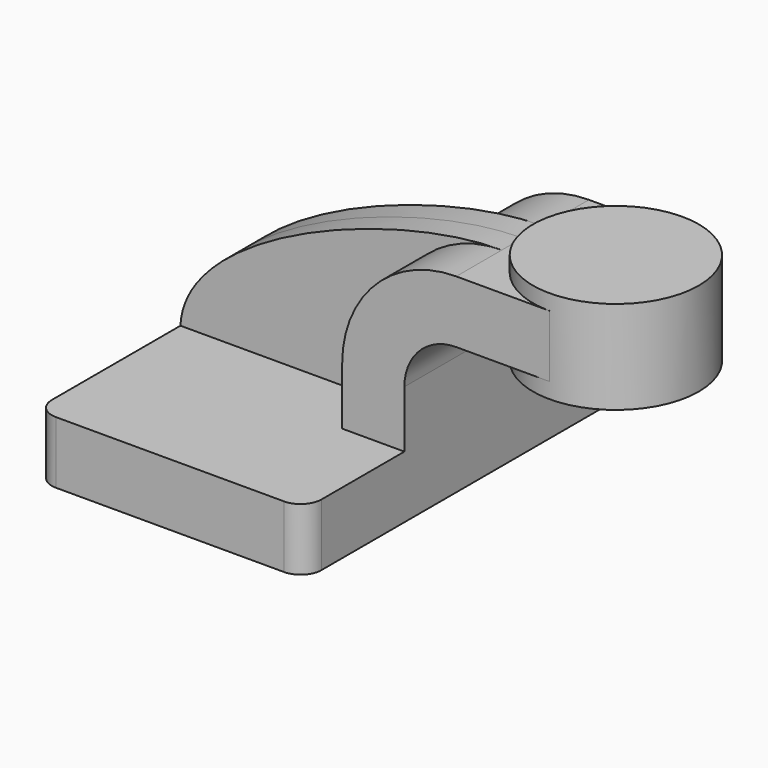
from build123d import *

# Parameters (mm, degrees)
F1_DEPTH = 63.5
F0_W     = 25.4
F0_H     = 19.05
F2_DEPTH = 25.4
F3_DEPTH = 7.9375
F5_R     = 6.35


with BuildPart() as f1:
    # F0 (on Front) → F1 (new body, symmetric)
    with BuildSketch(Plane.XZ):
        Polygon((41.275, -9.525), (41.275, 9.525), (22.225, 9.525), (-41.275, 9.525), (-41.275, -9.525), align=None)
    extrude(amount=F1_DEPTH, both=True)

    # F0 (on Front) → F2 (join, symmetric)
    with BuildSketch(Plane.XZ):
        with BuildLine():
            Line((22.225, 9.525), (41.275, 9.525))
            Line((41.275, 9.525), (41.275, 27.0002))
            ThreePointArc((41.275, 27.0002), (45.92468, 38.22552), (57.15, 42.8752))
            Line((57.15, 42.8752), (60.325, 42.8752))
            Line((60.325, 42.8752), (60.325, 61.9252))
            Line((60.325, 61.9252), (57.15, 61.9252))
            ThreePointArc((57.15, 61.9252), (32.454296, 51.695904), (22.225, 27.0002))
            Line((22.225, 27.0002), (22.225, 9.525))
        make_face()
        with Locations((73.025, 52.4002)):
            Rectangle(F0_W, F0_H)
    extrude(amount=F2_DEPTH, both=True)

    # F0 (on Front) → F3 (join, symmetric)
    with BuildSketch(Plane.XZ):
        with BuildLine():
            Line((-41.275, 9.525), (22.225, 9.525))
            Line((22.225, 9.525), (22.225, 27.0002))
            ThreePointArc((22.225, 27.0002), (32.454296, 51.695904), (57.15, 61.9252))
            add(Edge.make_bspline(
                [(-41.275, 9.525), (-40.00771, 37.953217), (24.499903, 62.09942), (57.15, 61.9252)],
                knots=[0, 0, 0, 0, 111.504536, 111.504536, 111.504536, 111.504536], degree=3))
        make_face()
    extrude(amount=F3_DEPTH, both=True)

    # F5
    f5_edges = [f1.edges().sort_by_distance(p)[0] for p in [
        (41.275, -63.5, 0),
        (-41.275, -63.5, 0),
        (41.275, 63.5, 0),
        (-41.275, 63.5, 0),
    ]]
    fillet(f5_edges, radius=F5_R)


with BuildPart() as f4:
    # F0 (on Front) → F4 (revolve)
    with BuildSketch(Plane.XZ):
        Polygon((85.725, 61.9252), (85.725, 42.8752), (85.725, 38.1), (111.125, 38.1), (111.125, 66.675), (85.725, 66.675), align=None)
    revolve(axis=Axis((85.725, 0, 52.3875), (0, 0, -1)))


solid = Compound([f1.part, f4.part])
